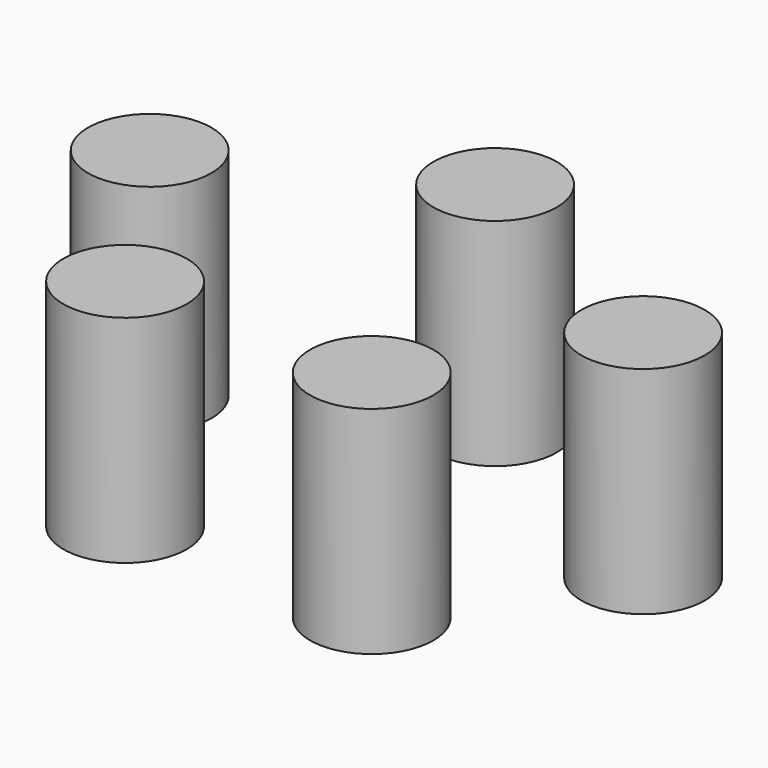
from build123d import *

# Parameters (mm, degrees)
CYLINDER012_R     = 1
CYLINDER012_DEPTH = 3.5
CYLINDER013_R     = 1
CYLINDER013_DEPTH = 3.5
CYLINDER014_R     = 1
CYLINDER014_DEPTH = 3.5
CYLINDER011_R     = 1
CYLINDER011_DEPTH = 3.5
CYLINDER010_R     = 1
CYLINDER010_DEPTH = 3.5


with BuildPart() as cylinder012:
    # Cylinder012 → Cylinder012 (new body)
    with BuildSketch(Plane(origin=(27, 10, -3.5), x_dir=(1, 0, 0), z_dir=(0, 0, 1))):
        Circle(CYLINDER012_R)
    extrude(amount=CYLINDER012_DEPTH)


with BuildPart() as cylinder013:
    # Cylinder013 → Cylinder013 (new body)
    with BuildSketch(Plane(origin=(31, 10, -3.5), x_dir=(1, 0, 0), z_dir=(0, 0, 1))):
        Circle(CYLINDER013_R)
    extrude(amount=CYLINDER013_DEPTH)


with BuildPart() as cylinder014:
    # Cylinder014 → Cylinder014 (new body)
    with BuildSketch(Plane(origin=(33, 13, -3.5), x_dir=(1, 0, 0), z_dir=(0, 0, 1))):
        Circle(CYLINDER014_R)
    extrude(amount=CYLINDER014_DEPTH)


with BuildPart() as cylinder011:
    # Cylinder011 → Cylinder011 (new body)
    with BuildSketch(Plane(origin=(25, 13, -3.5), x_dir=(1, 0, 0), z_dir=(0, 0, 1))):
        Circle(CYLINDER011_R)
    extrude(amount=CYLINDER011_DEPTH)


with BuildPart() as under_base:
    # Cylinder010 → Cylinder010 (new body)
    with BuildSketch(Plane(origin=(29, 15, -3.5), x_dir=(1, 0, 0), z_dir=(0, 0, 1))):
        Circle(CYLINDER010_R)
    extrude(amount=CYLINDER010_DEPTH)

    # Fusion002: union Cylinder012, Cylinder013, Cylinder014, Cylinder011
    add(cylinder012.part)
    add(cylinder013.part)
    add(cylinder014.part)
    add(cylinder011.part)


with BuildPart() as under_base_1:
    # Fusion002 placement: moved
    add(under_base.part.moved(Location((-18, 0, 0))))


solid = under_base_1.part
